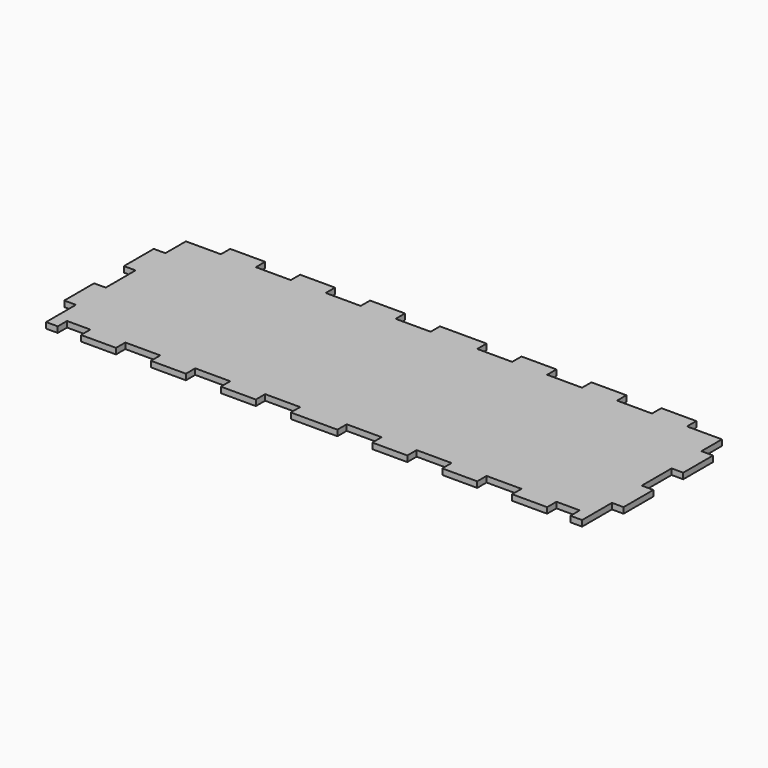
from build123d import *

# Parameters (mm, degrees)
F1_DEPTH = 3.175


with BuildPart() as f1:
    # F0 (on Top) → F1 (new body)
    with BuildSketch(Plane.XY):
        Polygon((24.269844, -44.48778), (24.269844, -64.80778), (30.619844, -64.80778), (30.619844, -58.45778), (43.319844, -58.45778), (43.319844, -64.80778), (62.369844, -64.80778), (62.369844, -58.45778), (81.419844, -58.45778), (81.419844, -64.80778), (100.469844, -64.80778), (100.469844, -58.45778), (119.519844, -58.45778), (119.519844, -64.80778), (138.569844, -64.80778), (138.569844, -58.45778), (157.619844, -58.45778), (157.619844, -64.80778), (170.319844, -64.80778), (183.019844, -64.80778), (183.019844, -58.45778), (202.069844, -58.45778), (202.069844, -64.80778), (221.119844, -64.80778), (221.119844, -58.45778), (240.169844, -58.45778), (240.169844, -64.80778), (259.219844, -64.80778), (259.219844, -58.45778), (278.269844, -58.45778), (278.269844, -64.80778), (297.319844, -64.80778), (297.319844, -58.45778), (310.019844, -58.45778), (310.019844, -64.80778), (316.369844, -64.80778), (316.369844, -44.48778), (322.719844, -44.48778), (322.719844, -24.16778), (316.369844, -24.16778), (316.369844, -3.84778), (322.719844, -3.84778), (322.719844, 16.47222), (316.369844, 16.47222), (316.369844, 30.44222), (297.319844, 30.44222), (297.319844, 36.79222), (278.269844, 36.79222), (278.269844, 30.44222), (259.219844, 30.44222), (259.219844, 36.79222), (240.169844, 36.79222), (240.169844, 30.44222), (221.119844, 30.44222), (221.119844, 36.79222), (202.069844, 36.79222), (202.069844, 30.44222), (183.019844, 30.44222), (183.019844, 36.79222), (170.319844, 36.79222), (157.619844, 36.79222), (157.619844, 30.44222), (138.569844, 30.44222), (138.569844, 36.79222), (119.519844, 36.79222), (119.519844, 30.44222), (100.469844, 30.44222), (100.469844, 36.79222), (81.419844, 36.79222), (81.419844, 30.44222), (62.369844, 30.44222), (62.369844, 36.79222), (43.319844, 36.79222), (43.319844, 30.44222), (24.269844, 30.44222), (24.269844, 16.47222), (17.919844, 16.47222), (17.919844, -3.84778), (24.269844, -3.84778), (24.269844, -24.16778), (17.919844, -24.16778), (17.919844, -44.48778), align=None)
    extrude(amount=F1_DEPTH)


solid = f1.part
